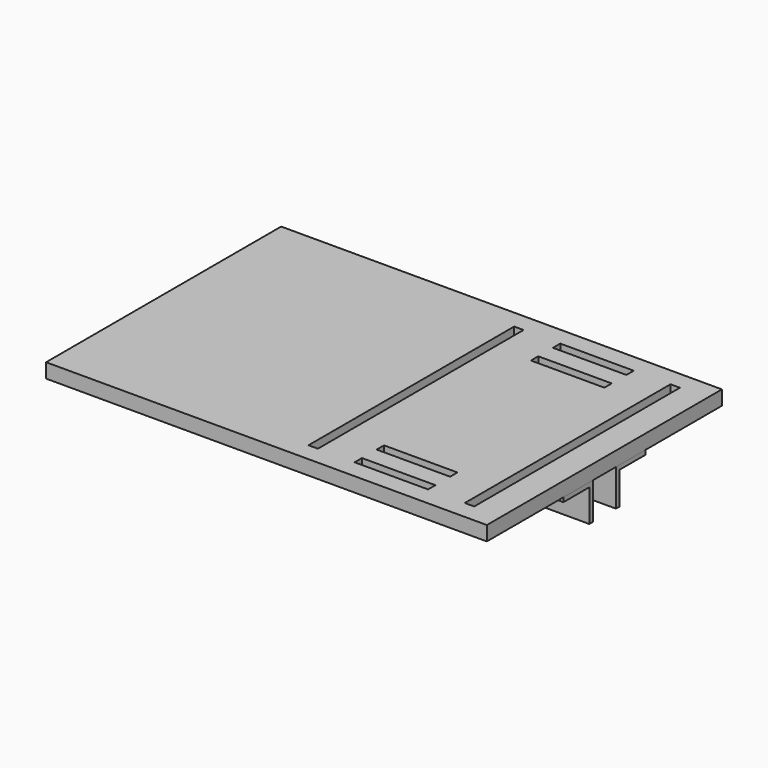
from build123d import *

# Parameters (mm, degrees)
F0_W     = 304.8
F0_H     = 203.2
F1_DEPTH = 10
F2_W     = 50.8
F2_H     = 6.35
F2_W_2   = 6.5
F2_H_2   = 177.8
F3_DEPTH = 25
F5_DEPTH = 152.4


with BuildPart() as f1:
    # F0 (on Top) → F1 (new body)
    with BuildSketch(Plane.XY):
        Rectangle(F0_W, F0_H)
    extrude(amount=F1_DEPTH)

    # F2 (on face) → F3 (cut)
    with BuildSketch(Plane.XY.offset(10)):
        with Locations((76.2, 85.725)):
            Rectangle(F2_W, F2_H)
        with Locations((76.2, 66.675)):
            Rectangle(F2_W, F2_H)
        with Locations((76.2, -66.675)):
            Rectangle(F2_W, F2_H)
        with Locations((76.2, -85.725)):
            Rectangle(F2_W, F2_H)
        with Locations((130.25, 0)):
            Rectangle(F2_W_2, F2_H_2)
        with Locations((22.15, 0)):
            Rectangle(F2_W_2, F2_H_2)
    extrude(amount=-F3_DEPTH, mode=Mode.SUBTRACT)


with BuildPart() as f5:
    # F4 (on Right) → F5 (new body, through all)
    with BuildSketch(Plane.YZ):
        Polygon((-35.4, 0), (-35.4, -3), (-13, -3), (-13, -25.4), (-10, -25.4), (-10, -3), (-10, 0), align=None)
    extrude(amount=F5_DEPTH)


with BuildPart() as f6_1:
    # F6: instance of F5
    add(f5.part.mirror(Plane.XZ))


solid = Compound([f1.part, f5.part, f6_1.part])
